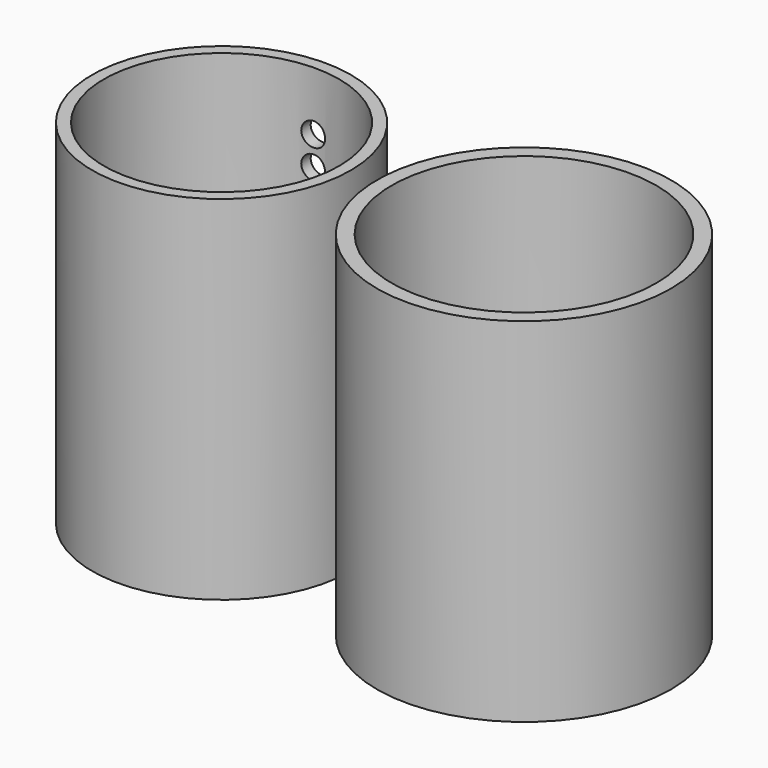
from build123d import *

# Parameters (mm, degrees)
F0_R     = 25
F0_R_2   = 22.5
F1_DEPTH = 60
F2_R     = 22
F2_R_2   = 20
F3_DEPTH = 60
F5_D     = 4
F5_DEPTH = 22.001


with BuildPart() as f1:
    # F0 (on Top) → F1 (new body)
    with BuildSketch(Plane.XY):
        Circle(F0_R)
        Circle(F0_R_2, mode=Mode.SUBTRACT)
    extrude(amount=F1_DEPTH)


with BuildPart() as f3:
    # F2 (on Top) → F3 (new body)
    with BuildSketch(Plane.XY):
        with Locations((-51.4289374806, 0)):
            Circle(F2_R)
        with Locations((-51.4289374806, 0)):
            Circle(F2_R_2, mode=Mode.SUBTRACT)
    extrude(amount=F3_DEPTH)

    # F5 (through all, one way)
    with BuildSketch(Plane.XZ):
        with Locations((-51.7666899301, 50), (-51.7666899301, 45), (-51.7666899301, 40), (-51.7666899301, 35), (-51.7666899301, 30), (-51.7666899301, 25), (-51.7666899301, 20), (-51.7666899301, 15), (-51.7666899301, 10)):
            Circle(F5_D / 2)
    extrude(amount=-F5_DEPTH, mode=Mode.SUBTRACT)


solid = Compound([f1.part, f3.part])
